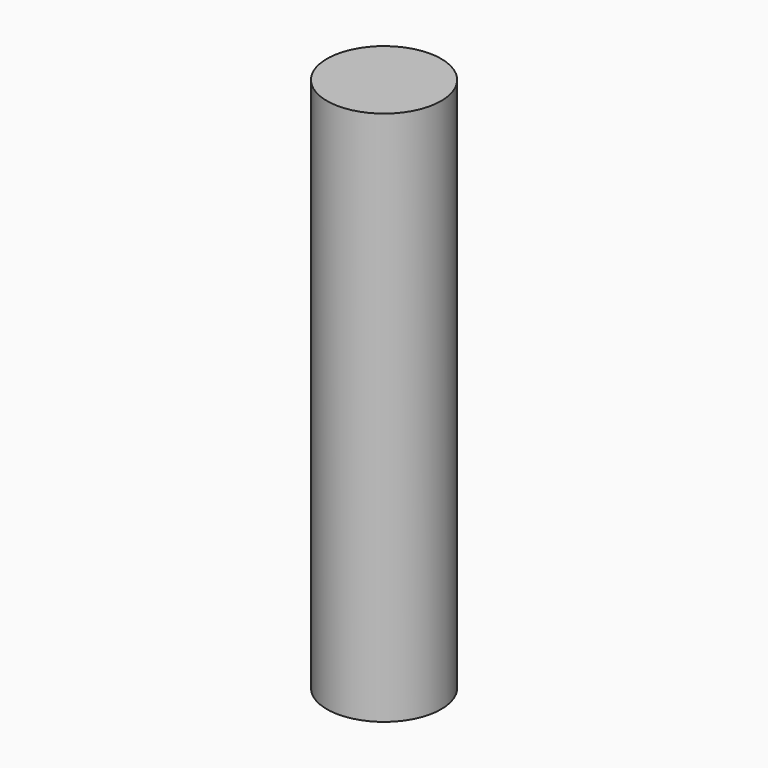
from build123d import *

# Parameters (mm, degrees)
CYLINDER_R     = 1.6002
CYLINDER_DEPTH = 15


with BuildPart() as part:
    # Cylinder → Cylinder (new body)
    with BuildSketch(Plane.XY.offset(-2.5)):
        Circle(CYLINDER_R)
    extrude(amount=CYLINDER_DEPTH)


solid = part.part
